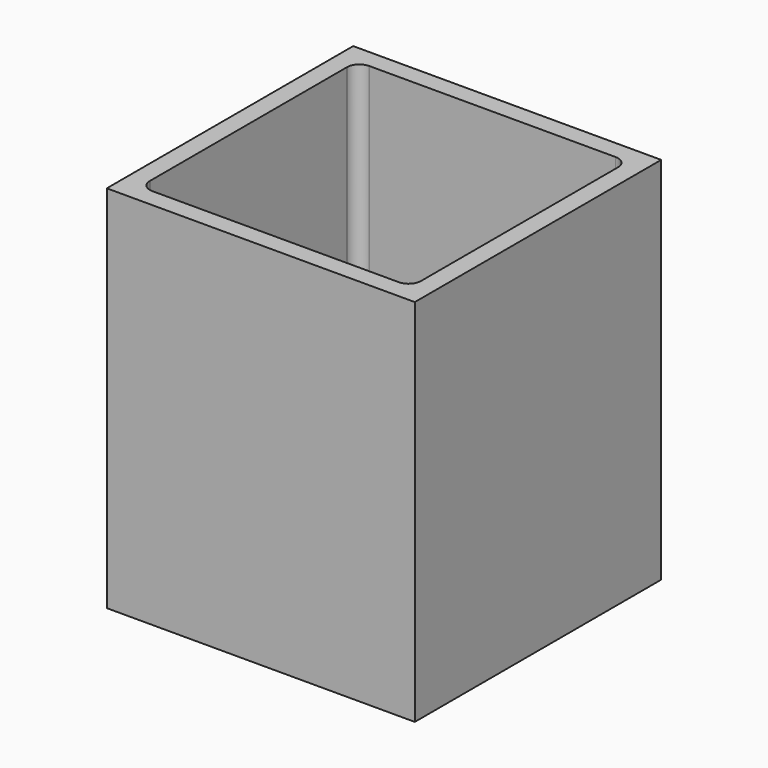
from build123d import *

# Parameters (mm, degrees)
F0_W     = 500
F0_H     = 500
F1_DEPTH = 600


with BuildPart() as f1:
    # F0 (on Top) → F1 (new body)
    with BuildSketch(Plane.XY):
        Rectangle(F0_W, F0_H)
        with BuildLine():
            ThreePointArc((-200.145707391, 219.9994692269), (-200.000026529, 220), (-199.8543456655, 219.9994696133))
            Line((-199.8543456655, 219.9994696133), (199.999973471, 220))
            ThreePointArc((199.999973471, 220), (214.4809440479, 213.7950084988), (219.9764733348, 199.0301994505))
            Line((219.9764733348, 199.0301994505), (219.9764733348, -199.0301994505))
            ThreePointArc((219.9764733348, -199.0301994505), (214.480905162, -213.7950493181), (199.9998607178, -219.9999999995))
            Line((199.9998607178, -219.9999999995), (-199.6663459368, -219.9972166805))
            ThreePointArc((-199.6663459368, -219.9972166805), (-200.0001392822, -219.9999999995), (-200.3339325887, -219.9972120313))
            ThreePointArc((-200.3339325887, -219.9972120313), (-214.0088543508, -214.2741724726), (-219.9874282617, -200.7090214974))
            ThreePointArc((-219.9874282617, -200.7090214974), (-220, -200), (-219.9874282617, -199.2909785026))
            Line((-219.9874282617, -199.2909785026), (-219.9874282617, 199.2909785026))
            ThreePointArc((-219.9874282617, 199.2909785026), (-220, 200), (-219.9874282617, 200.7090214974))
            ThreePointArc((-219.9874282617, 200.7090214974), (-213.941525426, 214.3399396371), (-200.145707391, 219.9994692269))
        make_face(mode=Mode.SUBTRACT)
    extrude(amount=F1_DEPTH)


solid = f1.part
